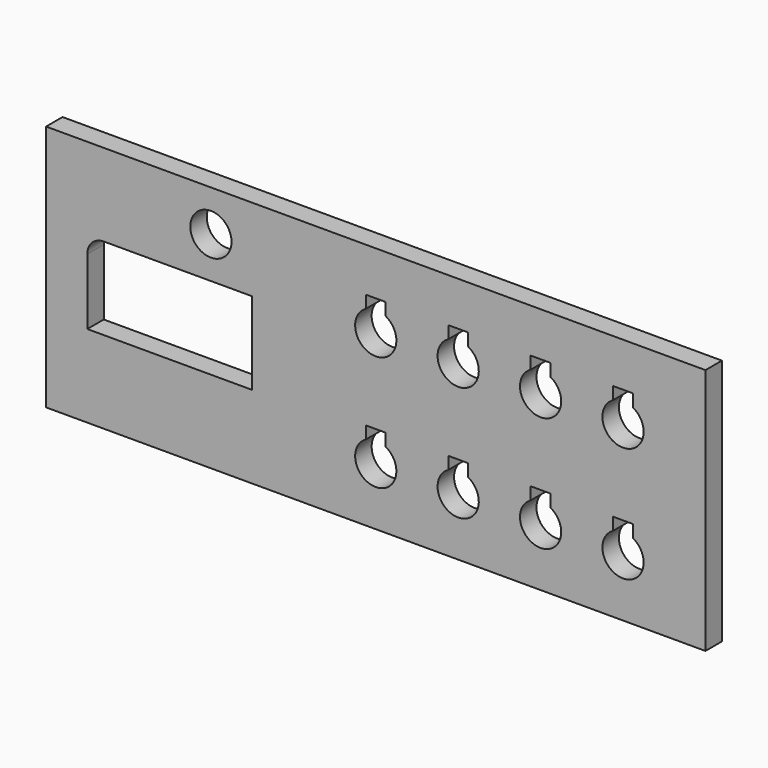
from build123d import *

# Parameters (mm, degrees)
F0_W     = 101.6
F0_H     = 38.1
F0_R     = 3.175
F1_DEPTH = 3.175


with BuildPart() as f1:
    # F0 (on Front) → F1 (new body)
    with BuildSketch(Plane.XZ):
        with Locations((50.8, 19.05)):
            Rectangle(F0_W, F0_H)
        with BuildLine():
            Line((31.75, 12.7), (6.35, 12.7))
            Line((6.35, 12.7), (6.35, 22.86))
            ThreePointArc((6.35, 22.86), (7.093949, 24.656051), (8.89, 25.4))
            Line((8.89, 25.4), (31.75, 25.4))
            Line((31.75, 25.4), (31.75, 12.7))
        make_face(mode=Mode.SUBTRACT)
        with BuildLine():
            ThreePointArc((52.324, 11.675327), (50.8, 5.715), (49.276, 11.675327))
            Line((49.276, 11.675327), (49.276, 13.589))
            Line((49.276, 13.589), (52.324, 13.589))
            Line((52.324, 13.589), (52.324, 11.675327))
        make_face(mode=Mode.SUBTRACT)
        with BuildLine():
            Line((61.976, 11.675327), (61.976, 13.589))
            Line((61.976, 13.589), (65.024, 13.589))
            Line((65.024, 13.589), (65.024, 11.675327))
            ThreePointArc((65.024, 11.675327), (63.5, 5.715), (61.976, 11.675327))
        make_face(mode=Mode.SUBTRACT)
        with BuildLine():
            Line((74.676, 11.675327), (74.676, 13.589))
            Line((74.676, 13.589), (77.724, 13.589))
            Line((77.724, 13.589), (77.724, 11.675327))
            ThreePointArc((77.724, 11.675327), (76.2, 5.715), (74.676, 11.675327))
        make_face(mode=Mode.SUBTRACT)
        with BuildLine():
            Line((87.376, 11.675327), (87.376, 13.589))
            Line((87.376, 13.589), (90.424, 13.589))
            Line((90.424, 13.589), (90.424, 11.675327))
            ThreePointArc((90.424, 11.675327), (88.9, 5.715), (87.376, 11.675327))
        make_face(mode=Mode.SUBTRACT)
        with Locations((25.4, 31.75)):
            Circle(F0_R, mode=Mode.SUBTRACT)
        with BuildLine():
            Line((49.276, 29.404527), (49.276, 31.3182))
            Line((49.276, 31.3182), (52.324, 31.3182))
            Line((52.324, 31.3182), (52.324, 29.404527))
            ThreePointArc((52.324, 29.404527), (50.8, 23.4442), (49.276, 29.404527))
        make_face(mode=Mode.SUBTRACT)
        with BuildLine():
            Line((61.976, 29.404527), (61.976, 31.3182))
            Line((61.976, 31.3182), (65.024, 31.3182))
            Line((65.024, 31.3182), (65.024, 29.404527))
            ThreePointArc((65.024, 29.404527), (63.5, 23.4442), (61.976, 29.404527))
        make_face(mode=Mode.SUBTRACT)
        with BuildLine():
            Line((74.676, 29.404527), (74.676, 31.3182))
            Line((74.676, 31.3182), (77.724, 31.3182))
            Line((77.724, 31.3182), (77.724, 29.404527))
            ThreePointArc((77.724, 29.404527), (76.2, 23.4442), (74.676, 29.404527))
        make_face(mode=Mode.SUBTRACT)
        with BuildLine():
            Line((87.376, 29.404527), (87.376, 31.3182))
            Line((87.376, 31.3182), (90.424, 31.3182))
            Line((90.424, 31.3182), (90.424, 29.404527))
            ThreePointArc((90.424, 29.404527), (88.9, 23.4442), (87.376, 29.404527))
        make_face(mode=Mode.SUBTRACT)
    extrude(amount=F1_DEPTH)


solid = f1.part
